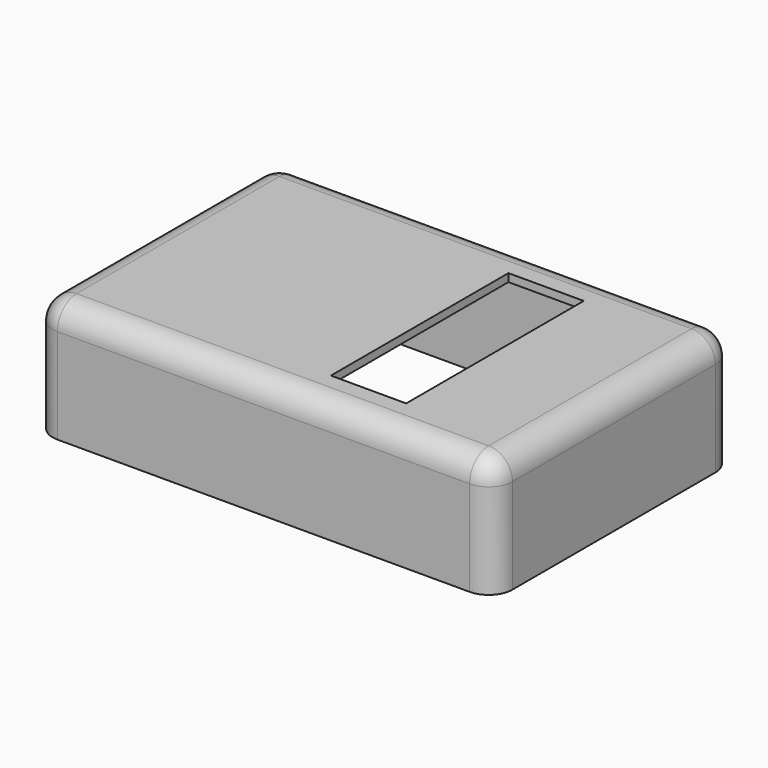
from build123d import *

# Parameters (mm, degrees)
F1_DEPTH = 48.26
F2_R     = 7.62
F3_R     = 7.62
F4_T     = -2.54
F5_W     = 24.13
F5_H     = 71.12
F6_DEPTH = 2.54


with BuildPart() as f1:
    # F0 (on Front) → F1 (new body, symmetric)
    with BuildSketch(Plane.XZ):
        with BuildLine():
            ThreePointArc((73.66, 11.43), (71.4281536726, 16.8181536726), (66.04, 19.05))
            Line((66.04, 19.05), (-66.04, 19.05))
            ThreePointArc((-66.04, 19.05), (-71.4281536726, 16.8181536726), (-73.66, 11.43))
            Line((-73.66, 11.43), (-73.66, -19.05))
            Line((-73.66, -19.05), (73.66, -19.05))
            Line((73.66, -19.05), (73.66, 11.43))
        make_face()
    extrude(amount=F1_DEPTH, both=True)

    # F2
    f2_edges = [f1.edges().sort_by_distance(p)[0] for p in [
        (66.04, 0, 19.05),
        (-66.04, 0, 19.05),
        (71.428154, 48.26, 16.818154),
    ]]
    fillet(f2_edges, radius=F2_R)

    # F3
    f3_edges = [f1.edges().sort_by_distance(p)[0] for p in [
        (66.04, -3.81, 19.05),
        (71.428154, -48.26, 16.818154),
    ]]
    fillet(f3_edges, radius=F3_R)

    # F4
    f4_openings = [f1.faces().sort_by_distance(p)[0] for p in [
        (0, 0, -19.05),
    ]]
    offset(amount=F4_T, openings=f4_openings)

    # F5 (on face) → F6 (cut, through all)
    with BuildSketch(Plane.XY.offset(19.05)):
        with Locations((23.495, 0)):
            Rectangle(F5_W, F5_H)
    extrude(amount=-F6_DEPTH, mode=Mode.SUBTRACT)


solid = f1.part
